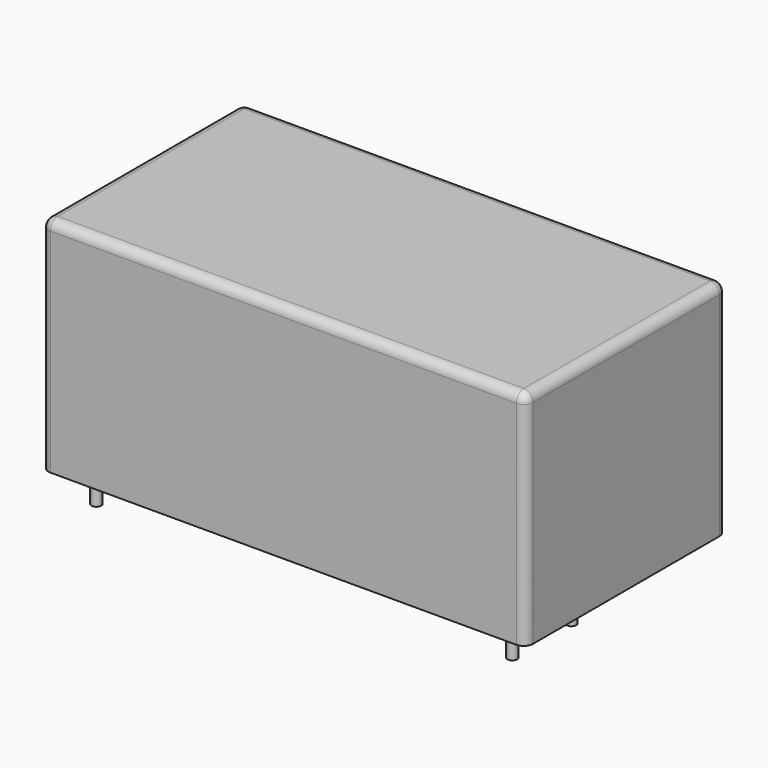
from build123d import *

# Parameters (mm, degrees)
F0_W     = 52.4
F0_H     = 27.2
F1_DEPTH = 24
F2_R     = 0.52
F3_DEPTH = 3.5
F4_R     = 1


with BuildPart() as f1:
    # F0 (on Top) → F1 (new body)
    with BuildSketch(Plane.XY):
        with Locations((26.2, 13.6)):
            Rectangle(F0_W, F0_H)
    extrude(amount=F1_DEPTH)

    # F2 (on Top) → F3 (join)
    with BuildSketch(Plane.XY):
        with Locations((3.4, 3.2)):
            Circle(F2_R)
        with Locations((3.4, 24)):
            Circle(F2_R)
        with Locations((48.4, 3.2)):
            Circle(F2_R)
        with Locations((48.4, 11.2)):
            Circle(F2_R)
    extrude(amount=-F3_DEPTH)

    # F4
    f4_edges = [f1.edges().sort_by_distance(p)[0] for p in [
        (0, 0, 12),
        (52.4, 0, 12),
        (0, 27.2, 12),
        (0, 13.6, 24),
        (26.2, 27.2, 24),
        (52.4, 27.2, 12),
        (52.4, 13.6, 24),
        (26.2, 0, 24),
    ]]
    fillet(f4_edges, radius=F4_R)


solid = f1.part
